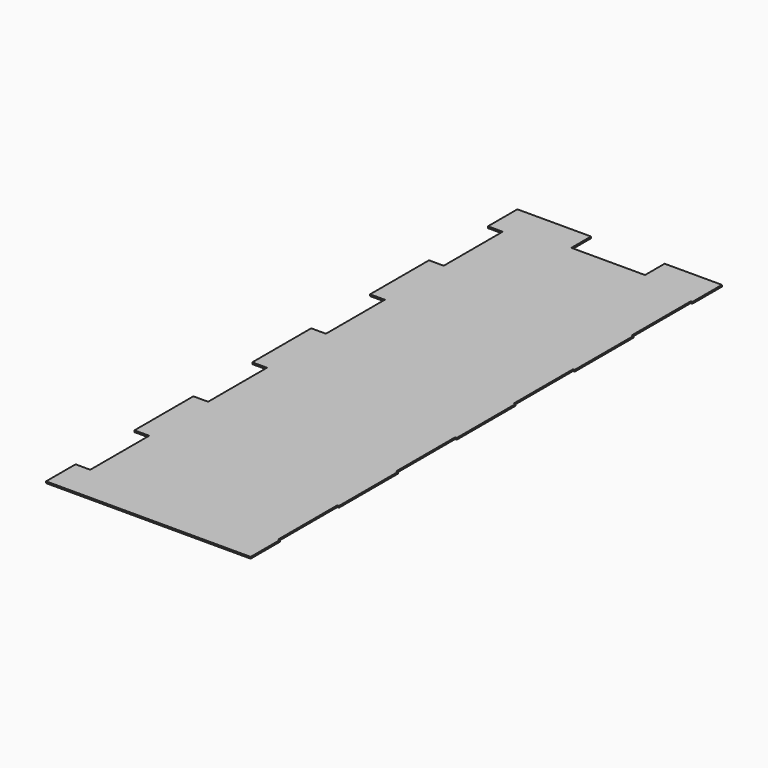
from build123d import *

# Parameters (mm, degrees)
BOX010_W         = 45
BOX010_H         = 15
BOX010_DEPTH     = 1
BOX013_W         = 9
BOX013_H         = 45
BOX013_DEPTH     = 1
ARRAY004_Y_COUNT = 4
ARRAY004_Y_PITCH = 90
BOX014_W         = 1
BOX014_H         = 45
BOX014_DEPTH     = 1
ARRAY003_Y_COUNT = 4
ARRAY003_Y_PITCH = 90
BOX016_W         = 125
BOX016_H         = 360
BOX016_DEPTH     = 1


with BuildPart() as box010:
    # Box010 → Box010 (new body)
    with BuildSketch(Plane(origin=(-80, 345, 0), x_dir=(1, 0, 0), z_dir=(0, 0, 1))):
        with Locations((22.5, 7.5)):
            Rectangle(BOX010_W, BOX010_H)
    extrude(amount=BOX010_DEPTH)


with BuildPart() as array004:
    # Box013 → Box013 (new body)
    with BuildSketch(Plane(origin=(-125, 0, 0), x_dir=(1, 0, 0), z_dir=(0, 0, 1))):
        with Locations((4.5, 22.5)):
            Rectangle(BOX013_W, BOX013_H)
    extrude(amount=BOX013_DEPTH)

    # Array004 Y: Array004 ×4


with BuildPart() as array004_1:
    add(array004.part)
    with Locations(*[(0, i * ARRAY004_Y_PITCH, 0) for i in range(1, ARRAY004_Y_COUNT)]):
        add(array004.part)


with BuildPart() as array004_2:
    # Array004 placement: moved
    add(array004_1.part.moved(Location((0, 22.5, 0))))


with BuildPart() as array003:
    # Box014 → Box014 (new body)
    with BuildSketch(Plane(origin=(-1, 0, 0), x_dir=(1, 0, 0), z_dir=(0, 0, 1))):
        with Locations((0.5, 22.5)):
            Rectangle(BOX014_W, BOX014_H)
    extrude(amount=BOX014_DEPTH)

    # Array003 Y: Array003 ×4


with BuildPart() as array003_1:
    add(array003.part)
    with Locations(*[(0, i * ARRAY003_Y_PITCH, 0) for i in range(1, ARRAY003_Y_COUNT)]):
        add(array003.part)


with BuildPart() as array003_2:
    # Array003 placement: moved
    add(array003_1.part.moved(Location((0, 22.5, 0))))


with BuildPart() as cut002008005:
    # Box016 → Box016 (new body)
    with BuildSketch(Plane(origin=(-125, 0, 0), x_dir=(1, 0, 0), z_dir=(0, 0, 1))):
        with Locations((62.5, 180)):
            Rectangle(BOX016_W, BOX016_H)
    extrude(amount=BOX016_DEPTH)

    # Cut002008003: cut Array003
    add(array003_2.part, mode=Mode.SUBTRACT)

    # Cut002008004: cut Array004
    add(array004_2.part, mode=Mode.SUBTRACT)

    # Cut002008005: cut Box010
    add(box010.part, mode=Mode.SUBTRACT)


solid = cut002008005.part
